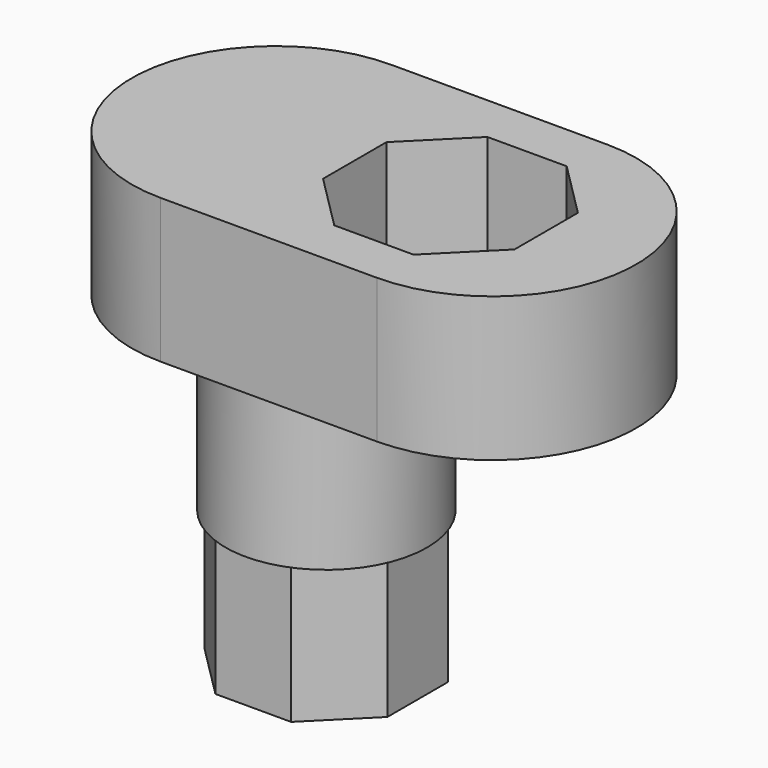
from build123d import *

# Parameters (mm, degrees)
PAD_DEPTH    = 40
POCKET_DEPTH = 100
SKETCH002_R  = 28
PAD001_DEPTH = 48
PAD002_DEPTH = 38


with BuildPart() as part:
    # Sketch → Pad (new body)
    with BuildSketch(Plane.XY):
        with BuildLine():
            Line((-30, 40), (30, 40))
            ThreePointArc((30, -40), (70, 0), (30, 40))
            Line((-30, -40), (30, -40))
            ThreePointArc((-30, 40), (-70, 0), (-30, -40))
        make_face()
    extrude(amount=PAD_DEPTH)

    # Sketch001 (on DatumPlane) → Pocket (cut)
    with BuildSketch(Plane(origin=(0, 0, 0), x_dir=(1, 0, 0), z_dir=(0, 0, -1))):
        Polygon((29.443651, -26.556349), (45, -11), (45, 11), (29.443651, 26.556349), (7.443651, 26.556349), (-8.112698, 11), (-8.112698, -11), (7.443651, -26.556349), align=None)
    extrude(amount=-POCKET_DEPTH, mode=Mode.SUBTRACT)

    # Sketch002 (on DatumPlane) → Pad001 (join)
    with BuildSketch(Plane(origin=(0, 0, 0), x_dir=(1, 0, 0), z_dir=(0, 0, -1))):
        with Locations((-16, 0)):
            Circle(SKETCH002_R)
    extrude(amount=PAD001_DEPTH)

    # Sketch003 (on DatumPlane) → Pad002 (join)
    with BuildSketch(Plane(origin=(0, 0, -48), x_dir=(1, 0, 0), z_dir=(0, 0, -1))):
        Polygon((-5.5, -25.349242), (9.349242, -10.5), (9.349242, 10.5), (-5.5, 25.349242), (-26.5, 25.349242), (-41.349242, 10.5), (-41.349242, -10.5), (-26.5, -25.349242), align=None)
    extrude(amount=PAD002_DEPTH)


solid = part.part
